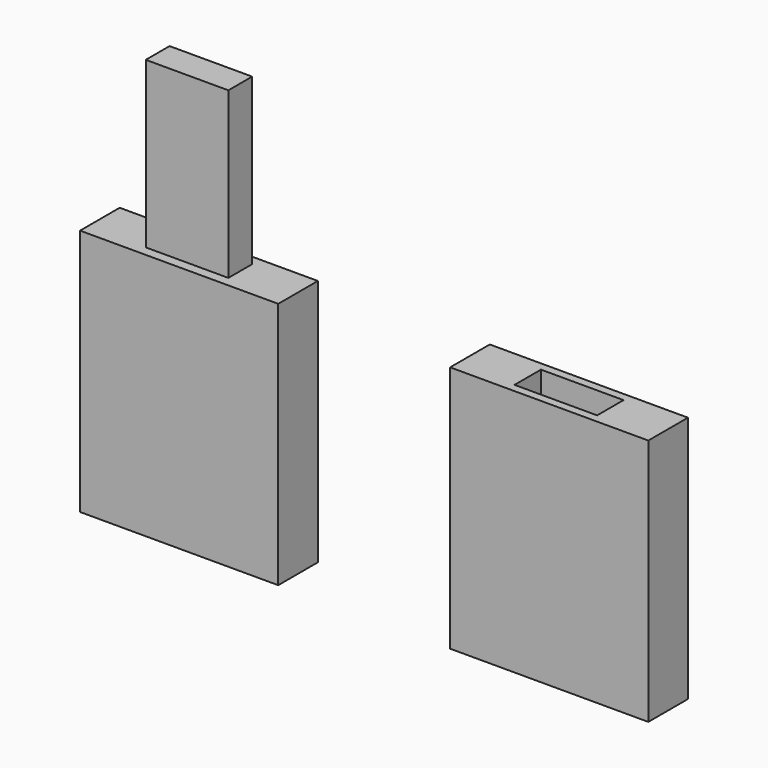
from build123d import *

# Parameters (mm, degrees)
F0_W     = 12
F0_H     = 3
F1_DEPTH = 15
F2_W     = 5
F2_H     = 1.8
F3_DEPTH = 10
F4_W     = 5
F4_H     = 2
F5_DEPTH = 10


with BuildPart() as f1:
    # F0 (on Top) → F1 (new body)
    with BuildSketch(Plane.XY):
        with Locations((-18.476369, 9.019)):
            Rectangle(F0_W, F0_H)
        with Locations((3.93327, 9.019)):
            Rectangle(F0_W, F0_H)
    extrude(amount=F1_DEPTH)

    # F2 (on face) → F3 (join)
    with BuildSketch(Plane.XY.offset(15)):
        with Locations((-18.476369, 9.019)):
            Rectangle(F2_W, F2_H)
    extrude(amount=F3_DEPTH)

    # F4 (on face) → F5 (cut)
    with BuildSketch(Plane.XY.offset(15)):
        with Locations((3.93327, 9.019)):
            Rectangle(F4_W, F4_H)
    extrude(amount=-F5_DEPTH, mode=Mode.SUBTRACT)


solid = f1.part
